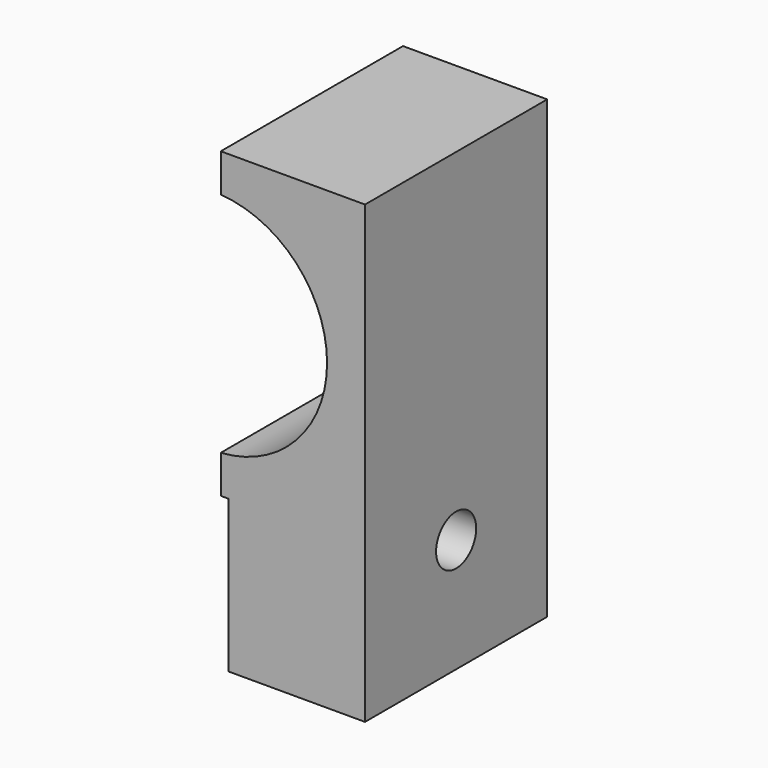
from build123d import *

# Parameters (mm, degrees)
F1_DEPTH = 15
F3_D     = 6.6


with BuildPart() as f1:
    # F0 (on Front) → F1 (new body, symmetric)
    with BuildSketch(Plane.XZ):
        with BuildLine():
            ThreePointArc((1, 14.9666295471), (10.9544511501, 10.246950766), (15, 0))
            ThreePointArc((15, 0), (10.9544511501, -10.246950766), (1, -14.9666295471))
            Line((1, -14.9666295471), (1, -19.9666295471))
            Line((1, -19.9666295471), (2, -19.9666295471))
            Line((2, -19.9666295471), (2, -40))
            Line((2, -40), (20, -40))
            Line((20, -40), (20, 20))
            Line((20, 20), (1, 20))
            Line((1, 20), (1, 14.9666295471))
        make_face()
    extrude(amount=F1_DEPTH, both=True)

    # F3 (through all)
    with Locations(Plane(origin=(0, 0, 0), x_dir=(0, 1, 0), z_dir=(-1, 0, 0))):
        with Locations((0, 25)):
            Hole(F3_D / 2)


solid = f1.part
